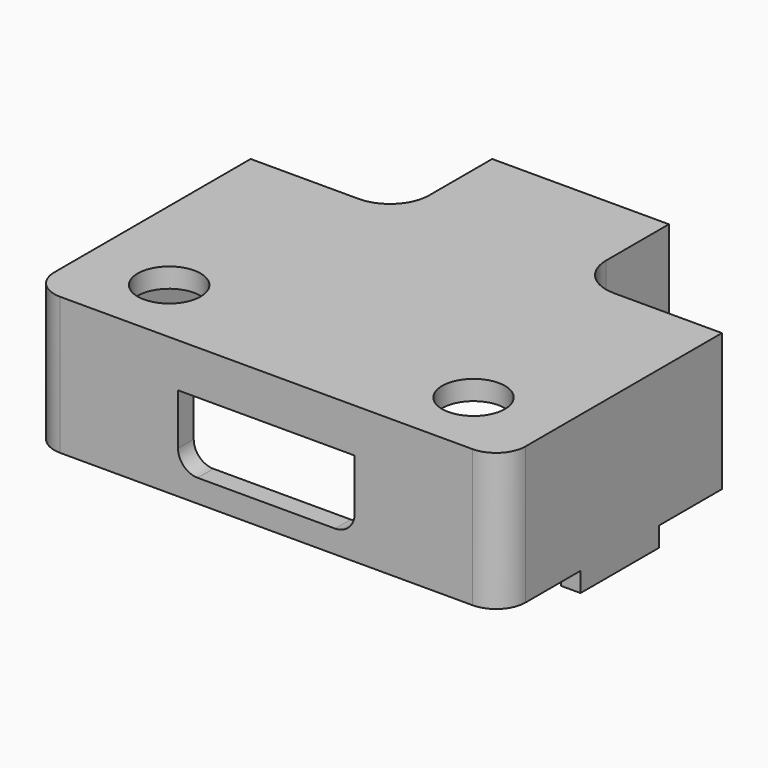
from build123d import *

# Parameters (mm, degrees)
F0_W      = 24
F0_H      = 5
F0_R      = 1.7
F1_DEPTH  = 7
F2_W      = 24
F2_H      = 7
F3_DEPTH  = 15
F4_R      = 1.6
F5_DEPTH  = 25
F7_DEPTH  = 7
F8_T      = -1
F9_W      = 22
F9_H      = 5.6300974414
F10_DEPTH = 6
F11_W     = 9
F11_H     = 3.6
F12_DEPTH = 1
F13_R     = 1
F14_R     = 1.5
F15_W     = 1
F15_H     = 5
F16_DEPTH = 1


with BuildPart() as f1:
    # F0 (on Top) → F1 (new body)
    with BuildSketch(Plane.XY):
        Rectangle(F0_W, F0_H)
        with Locations((-7, 0)):
            Circle(F0_R, mode=Mode.SUBTRACT)
        with Locations((7, 0)):
            Circle(F0_R, mode=Mode.SUBTRACT)
    extrude(amount=F1_DEPTH)

    # F2 (on face) → F3 (join)
    with BuildSketch(Plane.XZ.offset(2.5)):
        with Locations((0, 3.5)):
            Rectangle(F2_W, F2_H)
    extrude(amount=F3_DEPTH)

    # F4 (on face) → F5 (cut)
    with BuildSketch(Plane(origin=(0, 0, 0), x_dir=(1, 0, 0), z_dir=(0, 0, -1))):
        with Locations((-7.75, 14)):
            Circle(F4_R)
        with Locations((7.75, 14)):
            Circle(F4_R)
    extrude(amount=-F5_DEPTH, mode=Mode.SUBTRACT)

    # F6 (on face) → F7 (cut, through all)
    with BuildSketch(Plane.XY.offset(7)):
        with BuildLine():
            Line((-4.5, 2.5), (-12, 2.5))
            Line((-12, 2.5), (-12, -3.5))
            Line((-12, -3.5), (-6.5, -3.5))
            ThreePointArc((-6.5, -3.5), (-5.0857864376, -2.9142135624), (-4.5, -1.5))
            Line((-4.5, -1.5), (-4.5, 2.5))
        make_face()
        with BuildLine():
            Line((12, -3.5), (12, 2.5))
            Line((12, 2.5), (4.5, 2.5))
            Line((4.5, 2.5), (4.5, -1.5))
            ThreePointArc((4.5, -1.5), (5.0857864376, -2.9142135624), (6.5, -3.5))
            Line((6.5, -3.5), (12, -3.5))
        make_face()
    extrude(amount=-F7_DEPTH, mode=Mode.SUBTRACT)

    # F8
    f8_openings = [f1.faces().sort_by_distance(p)[0] for p in [
        (0, -8.878513, 0),
    ]]
    offset(amount=F8_T, openings=f8_openings)

    # F9 (on face) → F10 (cut, through all)
    with BuildSketch(Plane(origin=(0, 0, 0), x_dir=(1, 0, 0), z_dir=(0, 0, -1))):
        with Locations((0, 13.6849512793)):
            Rectangle(F9_W, F9_H)
    extrude(amount=-F10_DEPTH, mode=Mode.SUBTRACT)

    # F11 (on face) → F12 (cut, through all)
    with BuildSketch(Plane.XZ.offset(17.5)):
        with Locations((0, 2.9600709677)):
            Rectangle(F11_W, F11_H)
    extrude(amount=-F12_DEPTH, mode=Mode.SUBTRACT)

    # F13
    f13_edges = [f1.edges().sort_by_distance(p)[0] for p in [
        (-4.5, -17, 1.160071),
        (4.5, -17, 1.160071),
    ]]
    fillet(f13_edges, radius=F13_R)

    # F14
    f14_edges = [f1.edges().sort_by_distance(p)[0] for p in [
        (12, -17.5, 3.5),
        (11, -16.5, 3),
        (-11, -16.5, 3),
        (-12, -17.5, 3.5),
    ]]
    fillet(f14_edges, radius=F14_R)

    # F15 (on face) → F16 (join)
    with BuildSketch(Plane(origin=(0, 0, 0), x_dir=(1, 0, 0), z_dir=(0, 0, -1))):
        with Locations((11.5, 10)):
            Rectangle(F15_W, F15_H)
        with Locations((-11.5, 10)):
            Rectangle(F15_W, F15_H)
    extrude(amount=F16_DEPTH)


solid = f1.part
